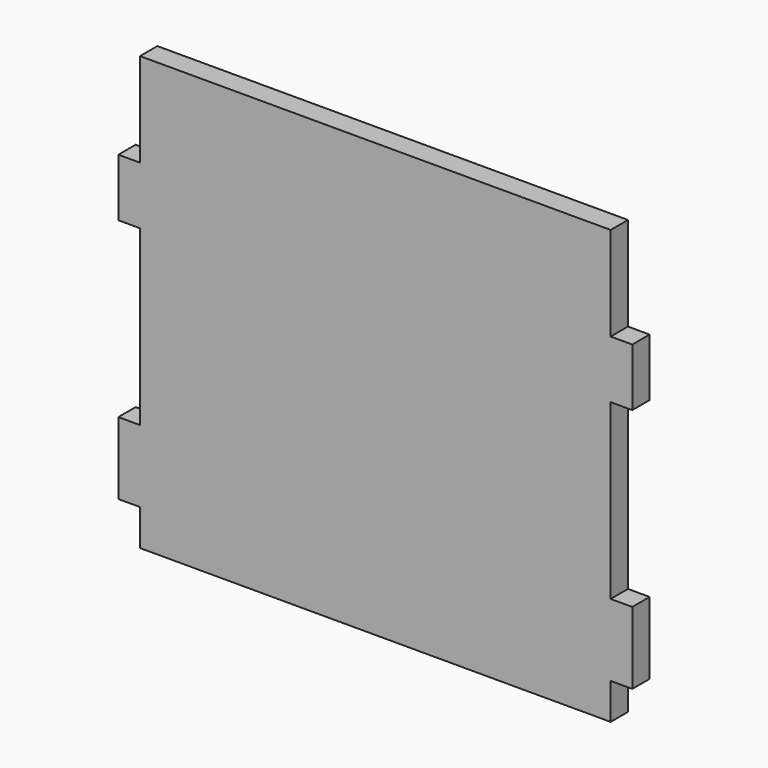
from build123d import *

# Parameters (mm, degrees)
F0_W     = 19.05
F0_H     = 63.5
F0_H_2   = 50.8
F1_DEPTH = 19.05


with BuildPart() as f1:
    # F0 (on Front) → F1 (new body)
    with BuildSketch(Plane.XZ):
        with Locations((-268.741788, -124.931888)):
            Rectangle(F0_W, F0_H)
        with Locations((-268.741788, 84.618112)):
            Rectangle(F0_W, F0_H_2)
        with Locations((164.328212, -124.931888)):
            Rectangle(F0_W, F0_H)
        with Locations((164.328212, 84.618112)):
            Rectangle(F0_W, F0_H_2)
        Polygon((-52.206788, 192.568112), (-259.216788, 192.568112), (-259.216788, 110.018112), (-259.216788, 59.218112), (-259.216788, -93.181888), (-259.216788, -156.681888), (-259.216788, -188.431888), (154.803212, -188.431888), (154.803212, -156.681888), (154.803212, -93.181888), (154.803212, 59.218112), (154.803212, 110.018112), (154.803212, 192.568112), align=None)
    extrude(amount=F1_DEPTH)


solid = f1.part
